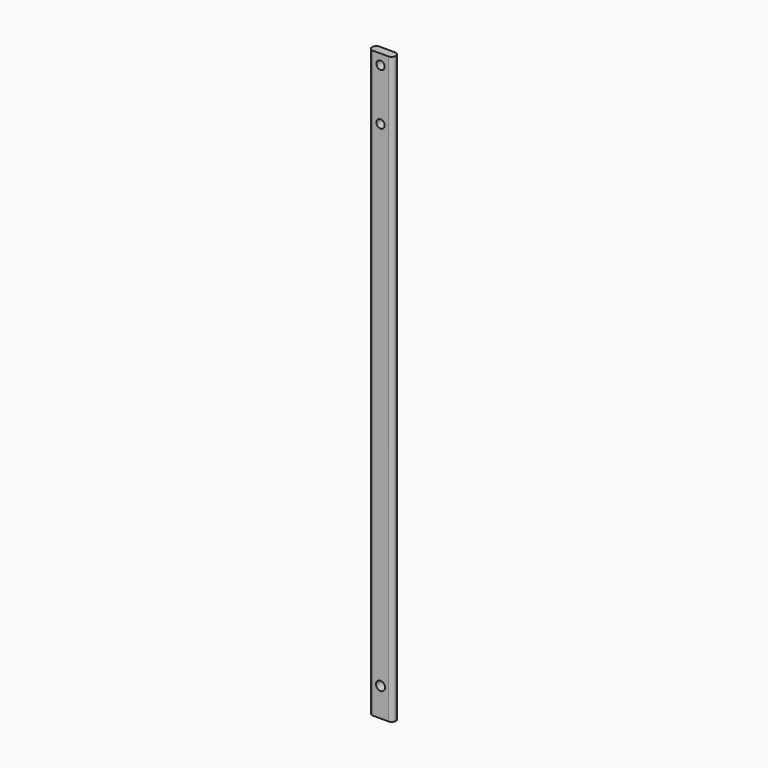
from build123d import *

# Parameters (mm, degrees)
F1_DEPTH = 161.925
F2_R     = 2.286
F3_DEPTH = 25.4
F4_R     = 2.5
F5_DEPTH = 25.4


with BuildPart() as f1:
    # F0 (on Top) → F1 (new body, symmetric)
    with BuildSketch(Plane.XY):
        with BuildLine():
            Line((4.318, 2.3876), (-4.318, 2.3876))
            ThreePointArc((-4.318, 2.3876), (-5.9344461018, 1.7180461018), (-6.604, 0.1016))
            Line((-6.604, 0.1016), (-6.604, -0.1016))
            ThreePointArc((-6.604, -0.1016), (-5.9344461018, -1.7180461018), (-4.318, -2.3876))
            Line((-4.318, -2.3876), (4.318, -2.3876))
            ThreePointArc((4.318, -2.3876), (5.9344461018, -1.7180461018), (6.604, -0.1016))
            Line((6.604, -0.1016), (6.604, 0.1016))
            ThreePointArc((6.604, 0.1016), (5.9344461018, 1.7180461018), (4.318, 2.3876))
        make_face()
    extrude(amount=F1_DEPTH, both=True)

    # F2 (on face) → F3 (cut)
    with BuildSketch(Plane.XZ.offset(2.3876)):
        with Locations((0, 156.21)):
            Circle(F2_R)
        with Locations((0, 127.635)):
            Circle(F2_R)
    extrude(amount=-F3_DEPTH, mode=Mode.SUBTRACT)

    # F4 (on face) → F5 (cut)
    with BuildSketch(Plane.XZ.offset(2.3876)):
        with Locations((0, -146.05)):
            Circle(F4_R)
    extrude(amount=-F5_DEPTH, mode=Mode.SUBTRACT)


solid = f1.part
